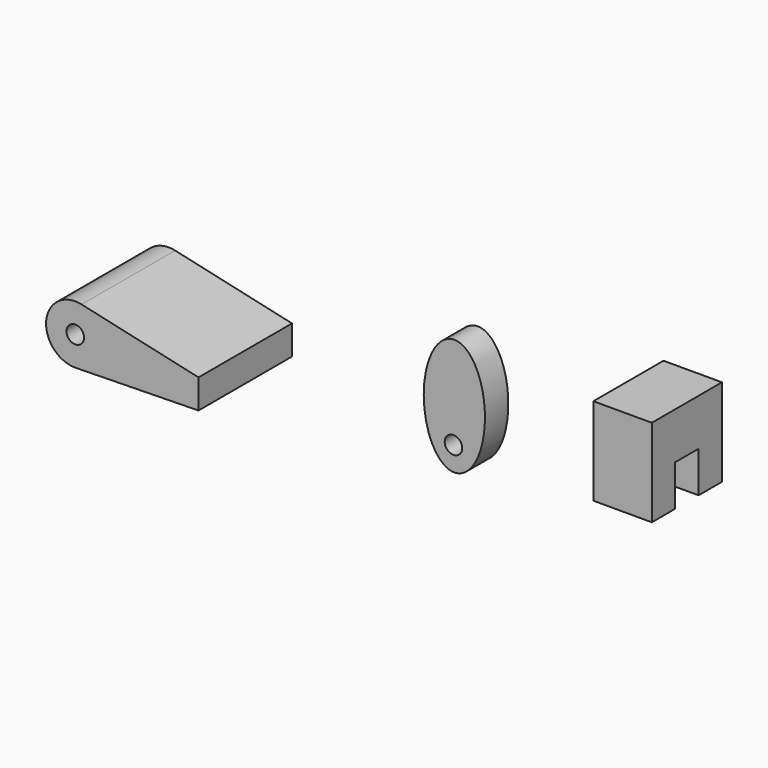
from build123d import *

# Parameters (mm, degrees)
F1_DEPTH = 20
F3_D     = 3
F6_DEPTH = 5
F7_D     = 3
F9_DEPTH = 10


with BuildPart() as f1:
    # F0 (on Front) → F1 (new body)
    with BuildSketch(Plane.XZ):
        with BuildLine():
            ThreePointArc((-30.8573386087, 32.2970444928), (-27.3835041522, 33.7944237341), (-25.9525371099, 37.2961381352))
            ThreePointArc((-25.9525371099, 37.2961381352), (-27.0497984586, 40.4216190614), (-29.8599895179, 42.1753122209))
            ThreePointArc((-29.8599895179, 42.1753122209), (-35.9272459981, 37.7984044761), (-30.8573386087, 32.2970444928))
        make_face()
        with BuildLine():
            ThreePointArc((-29.8599895179, 42.1753122209), (-27.0497984586, 40.4216190614), (-25.9525371099, 37.2961381352))
            ThreePointArc((-25.9525371099, 37.2961381352), (-27.3835041522, 33.7944237341), (-30.8573386087, 32.2970444928))
            Line((-30.8573386087, 32.2970444928), (-9.8599895179, 32.6969002077))
            Line((-9.8599895179, 32.6969002077), (-9.8599895179, 37.6969002077))
            Line((-9.8599895179, 37.6969002077), (-29.8599895179, 42.1753122209))
        make_face()
    extrude(amount=F1_DEPTH)

    # F3 (through all)
    with Locations(Plane.XZ.offset(20)):
        with Locations((-30.9525371099, 37.2961381352)):
            Hole(F3_D / 2)


with BuildPart() as f6:
    # F4 (on Front) → F6 (new body)
    with BuildSketch(Plane.XZ):
        with BuildLine():
            add(Edge.make_bspline(
                [(21.926837042, 27.6021936536), (31.0012587847, 27.6021936536), (26.4640479133, 42.6021936536), (21.926837042, 57.6021936536), (17.3896261706, 42.6021936536), (12.8524152992, 27.6021936536), (21.926837042, 27.6021936536)],
                knots=[0, 0, 0, 2.0943951024, 2.0943951024, 4.1887902048, 4.1887902048, 6.2831853072, 6.2831853072, 6.2831853072], degree=2, weights=[1, 0.5, 1, 0.5, 1, 0.5, 1]))
        make_face()
    extrude(amount=F6_DEPTH)

    # F7 (through all)
    with Locations(Plane(origin=(0, 0, 0), x_dir=(1, 0, 0), z_dir=(0, 1, 0))):
        with Locations((21.7793770134, -31.7023918033)):
            Hole(F7_D / 2)


with BuildPart() as f9:
    # F8 (on Right) → F9 (new body)
    with BuildSketch(Plane.YZ):
        Polygon((57.1578788757, 0), (62.1578788757, 0), (62.1578788757, -7.0202852738), (67.1578788757, -7.0202852738), (67.1578788757, 7.9797147262), (52.1578788757, 7.9797147262), (52.1578788757, -7.0202852738), (57.1578788757, -7.0202852738), align=None)
    extrude(amount=F9_DEPTH)


solid = Compound([f1.part, f6.part, f9.part])
